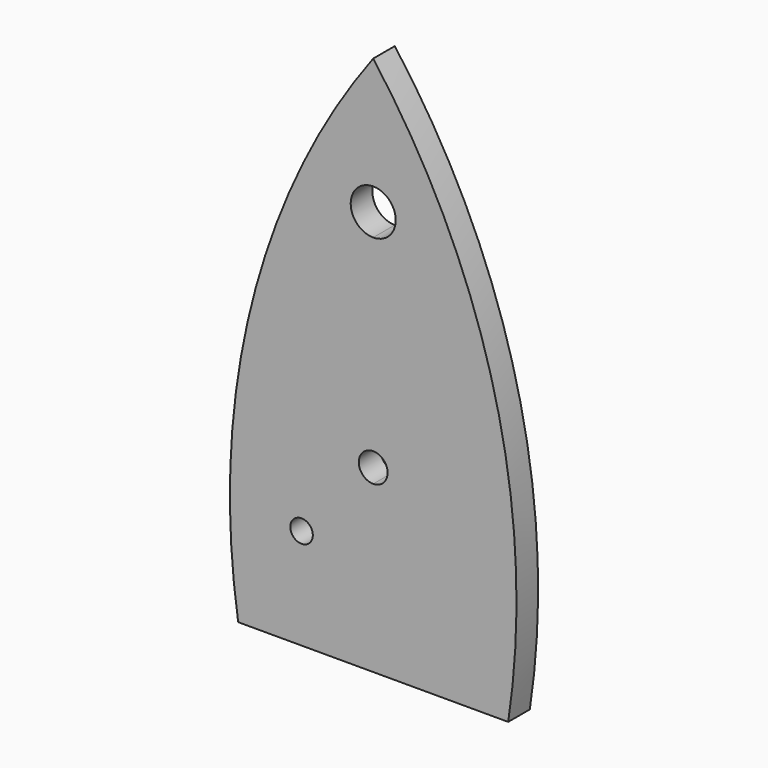
from build123d import *

# Parameters (mm, degrees)
F0_R     = 3.175
F1_DEPTH = 7.62


with BuildPart() as f1:
    # F0 (on Front) → F1 (new body)
    with BuildSketch(Plane.XZ):
        with BuildLine():
            Line((0, 69.85), (0, 101.6))
            ThreePointArc((0, 101.6), (-34.372719, 29.23068), (-38.1, -50.8))
            Line((-38.1, -50.8), (0, -50.8))
            Line((0, -50.8), (0, -4.064))
            ThreePointArc((0, -4.064), (-4.064, 0), (0, 4.064))
            Line((0, 4.064), (0, 57.15))
            ThreePointArc((0, 57.15), (-6.35, 63.5), (0, 69.85))
        make_face()
        with Locations((-20.213376, -22.352)):
            Circle(F0_R, mode=Mode.SUBTRACT)
        with BuildLine():
            ThreePointArc((38.1, -50.8), (34.372719, 29.23068), (0, 101.6))
            Line((0, 101.6), (0, 69.85))
            ThreePointArc((0, 69.85), (4.490128, 67.990128), (6.35, 63.5))
            ThreePointArc((6.35, 63.5), (4.490128, 59.009872), (0, 57.15))
            Line((0, 57.15), (0, 4.064))
            ThreePointArc((0, 4.064), (2.873682, 2.873682), (4.064, 0))
            ThreePointArc((4.064, 0), (2.873682, -2.873682), (0, -4.064))
            Line((0, -4.064), (0, -50.8))
            Line((0, -50.8), (38.1, -50.8))
        make_face()
    extrude(amount=F1_DEPTH)


solid = f1.part
